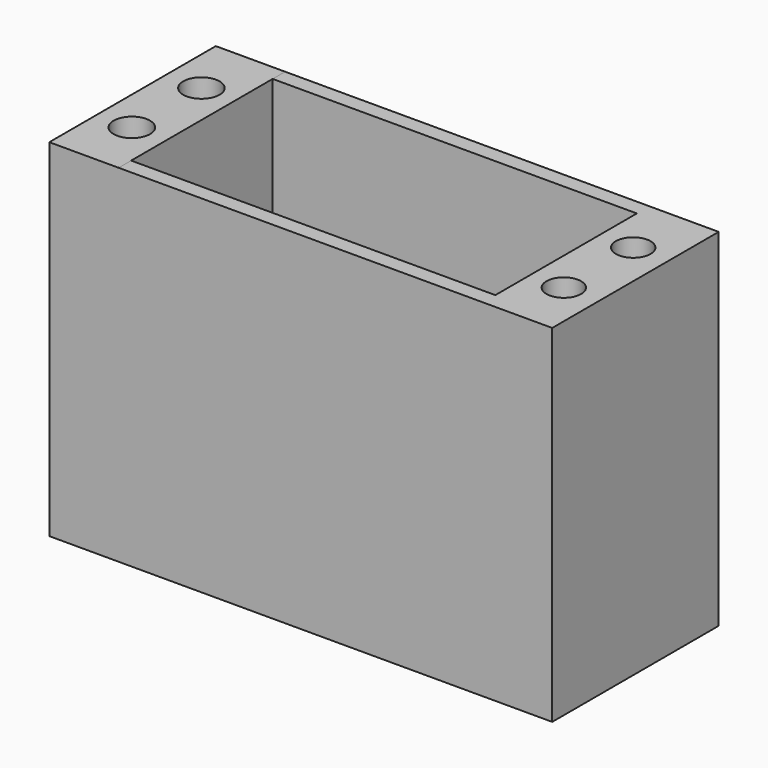
from build123d import *

# Parameters (mm, degrees)
PAD004_DEPTH    = 24
SKETCH008_W     = 42
SKETCH008_H     = 1.8
PAD005_DEPTH    = 30
SKETCH010_R     = 2.000122
SKETCH010_R_2   = 2.001214
SKETCH010_R_3   = 2.1
SKETCH010_R_4   = 2.10238
POCKET003_DEPTH = 10


with BuildPart() as part:
    # Sketch006 → Pad004 (new body)
    with BuildSketch(Plane.XZ):
        Polygon((-21.000973, 28), (-29, 28), (-29, -2), (-29, -12), (29, -12), (29, 28), (21, 28), (21, -2), (-21.000973, -2), align=None)
    extrude(amount=PAD004_DEPTH)

    # Sketch008 → Pad005 (join)
    with BuildSketch(Plane(origin=(0, 0, -2), x_dir=(-1, 0, 0), z_dir=(0, 0, 1))):
        with Locations((0, 0.9)):
            Rectangle(SKETCH008_W, SKETCH008_H)
        with Locations((0, 23.1)):
            Rectangle(SKETCH008_W, SKETCH008_H)
    extrude(amount=PAD005_DEPTH)

    # Sketch010 → Pocket003 (cut)
    with BuildSketch(Plane(origin=(0, 0, 28), x_dir=(-1, 0, 0), z_dir=(0, 0, 1))):
        with Locations((-24.9, 17.2)):
            Circle(SKETCH010_R)
        with Locations((-24.9, 7.2)):
            Circle(SKETCH010_R_2)
        with Locations((24.9, 7.2)):
            Circle(SKETCH010_R_3)
        with Locations((25, 17.1)):
            Circle(SKETCH010_R_4)
    extrude(amount=-POCKET003_DEPTH, mode=Mode.SUBTRACT)


solid = part.part
